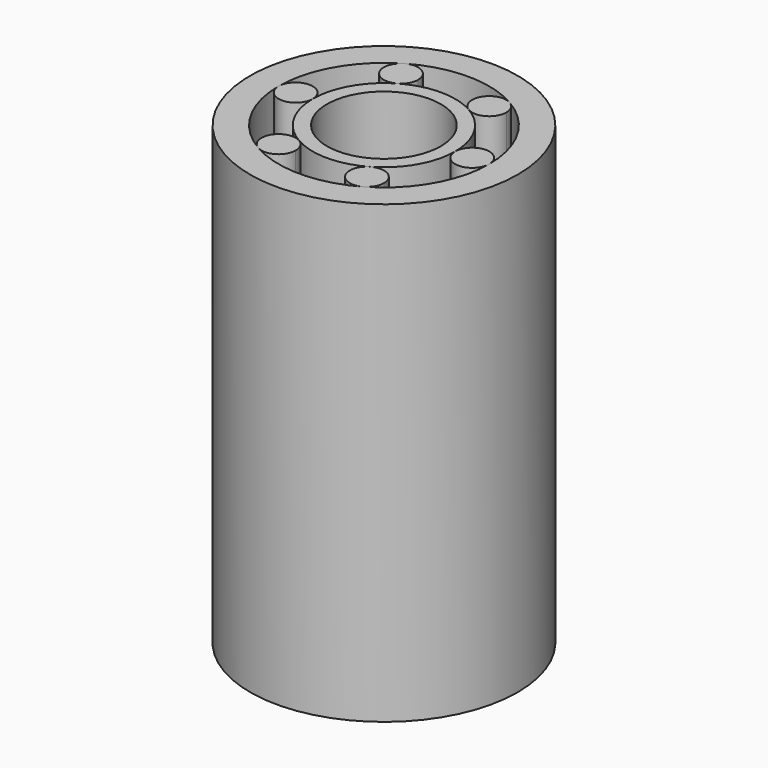
from build123d import *

# Parameters (mm, degrees)
F0_R     = 29.845
F0_R_2   = 12.7
F1_DEPTH = 101.6


with BuildPart() as f1:
    # F0 (on Top) → F1 (new body)
    with BuildSketch(Plane.XY):
        Circle(F0_R)
        with BuildLine():
            ThreePointArc((11.7475, 20.347267), (20.347267, 11.7475), (23.495, 0))
            ThreePointArc((23.495, 0), (20.347267, -11.7475), (11.7475, -20.347267))
            ThreePointArc((11.7475, -20.347267), (0, -23.495), (-11.7475, -20.347267))
            ThreePointArc((-11.7475, -20.347267), (-20.347267, -11.7475), (-23.495, 0))
            ThreePointArc((-23.495, 0), (-20.347267, 11.7475), (-11.7475, 20.347267))
            ThreePointArc((-11.7475, 20.347267), (0, 23.495), (11.7475, 20.347267))
        make_face(mode=Mode.SUBTRACT)
        with BuildLine():
            ThreePointArc((-11.7475, 20.347267), (-13.142057, 15.14271), (-7.9375, 13.748153))
            ThreePointArc((-7.9375, 13.748153), (-6.542943, 15.14271), (-6.0325, 17.04771))
            ThreePointArc((-6.0325, 17.04771), (-7.9375, 20.347267), (-11.7475, 20.347267))
        make_face()
        with BuildLine():
            ThreePointArc((11.7475, 20.347267), (6.542943, 18.95271), (7.9375, 13.748153))
            ThreePointArc((7.9375, 13.748153), (11.7475, 13.748153), (13.6525, 17.04771))
            ThreePointArc((13.6525, 17.04771), (13.142057, 18.95271), (11.7475, 20.347267))
        make_face()
        with BuildLine():
            ThreePointArc((23.495, 0), (19.685, 3.81), (15.875, 0))
            ThreePointArc((15.875, 0), (19.685, -3.81), (23.495, 0))
        make_face()
        with BuildLine():
            ThreePointArc((13.6525, -17.04771), (11.7475, -13.748153), (7.9375, -13.748153))
            ThreePointArc((7.9375, -13.748153), (6.542943, -18.95271), (11.7475, -20.347267))
            ThreePointArc((11.7475, -20.347267), (13.142057, -18.95271), (13.6525, -17.04771))
        make_face()
        with BuildLine():
            ThreePointArc((-6.0325, -17.04771), (-6.542943, -15.14271), (-7.9375, -13.748153))
            ThreePointArc((-7.9375, -13.748153), (-13.142057, -15.14271), (-11.7475, -20.347267))
            ThreePointArc((-11.7475, -20.347267), (-7.9375, -20.347267), (-6.0325, -17.04771))
        make_face()
        with BuildLine():
            ThreePointArc((-23.495, 0), (-19.685, -3.81), (-15.875, 0))
            ThreePointArc((-15.875, 0), (-19.685, 3.81), (-23.495, 0))
        make_face()
        with BuildLine():
            ThreePointArc((7.9375, -13.748153), (13.748153, -7.9375), (15.875, 0))
            ThreePointArc((15.875, 0), (13.748153, 7.9375), (7.9375, 13.748153))
            ThreePointArc((7.9375, 13.748153), (0, 15.875), (-7.9375, 13.748153))
            ThreePointArc((-7.9375, 13.748153), (-13.748153, 7.9375), (-15.875, 0))
            ThreePointArc((-15.875, 0), (-13.748153, -7.9375), (-7.9375, -13.748153))
            ThreePointArc((-7.9375, -13.748153), (0, -15.875), (7.9375, -13.748153))
        make_face()
        Circle(F0_R_2, mode=Mode.SUBTRACT)
    extrude(amount=F1_DEPTH)


solid = f1.part
